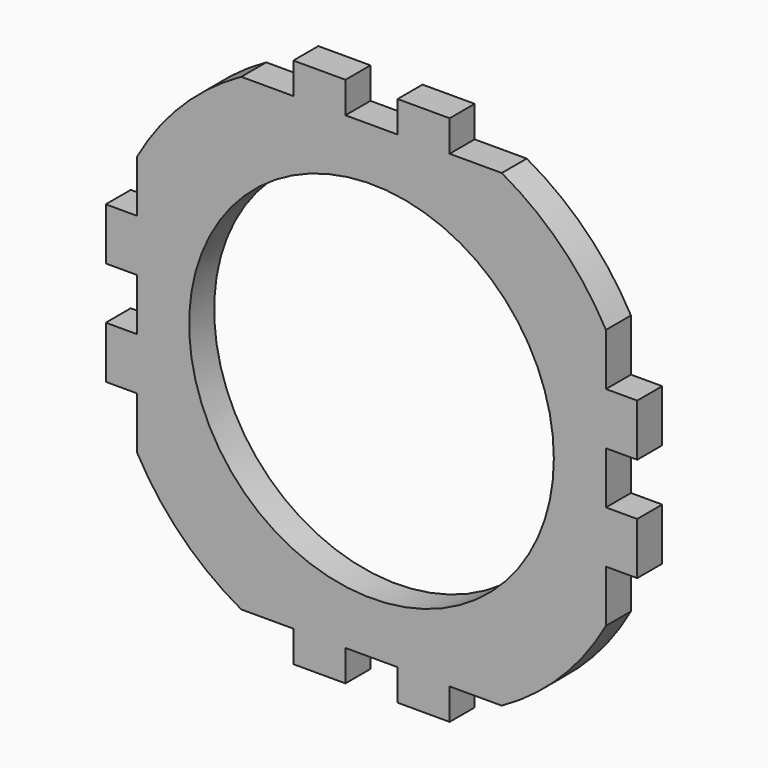
from build123d import *

# Parameters (mm, degrees)
F0_R     = 35
F1_DEPTH = 6


with BuildPart() as f1:
    # F0 (on Front) → F1 (new body)
    with BuildSketch(Plane.XZ):
        with BuildLine():
            Line((15, -45), (25, -45))
            ThreePointArc((25, -45), (36.400549, -36.400549), (45, -25))
            Line((45, -25), (45, -15))
            Line((45, -15), (51, -15))
            Line((51, -15), (51, -5))
            Line((51, -5), (45, -5))
            Line((45, -5), (45, 5))
            Line((45, 5), (51, 5))
            Line((51, 5), (51, 15))
            Line((51, 15), (45, 15))
            Line((45, 15), (45, 25))
            ThreePointArc((45, 25), (36.400549, 36.400549), (25, 45))
            Line((25, 45), (15, 45))
            Line((15, 45), (15, 51))
            Line((15, 51), (5, 51))
            Line((5, 51), (5, 45))
            Line((5, 45), (-5, 45))
            Line((-5, 45), (-5, 51))
            Line((-5, 51), (-15, 51))
            Line((-15, 51), (-15, 45))
            Line((-15, 45), (-25, 45))
            ThreePointArc((-25, 45), (-36.400549, 36.400549), (-45, 25))
            Line((-45, 25), (-45, 15))
            Line((-45, 15), (-51, 15))
            Line((-51, 15), (-51, 5))
            Line((-51, 5), (-45, 5))
            Line((-45, 5), (-45, -5))
            Line((-45, -5), (-51, -5))
            Line((-51, -5), (-51, -15))
            Line((-51, -15), (-45, -15))
            Line((-45, -15), (-45, -25))
            ThreePointArc((-45, -25), (-36.400549, -36.400549), (-25, -45))
            Line((-25, -45), (-15, -45))
            Line((-15, -45), (-15, -51))
            Line((-15, -51), (-5, -51))
            Line((-5, -51), (-5, -45))
            Line((-5, -45), (5, -45))
            Line((5, -45), (5, -51))
            Line((5, -51), (15, -51))
            Line((15, -51), (15, -45))
        make_face()
        Circle(F0_R, mode=Mode.SUBTRACT)
    extrude(amount=F1_DEPTH)


solid = f1.part
